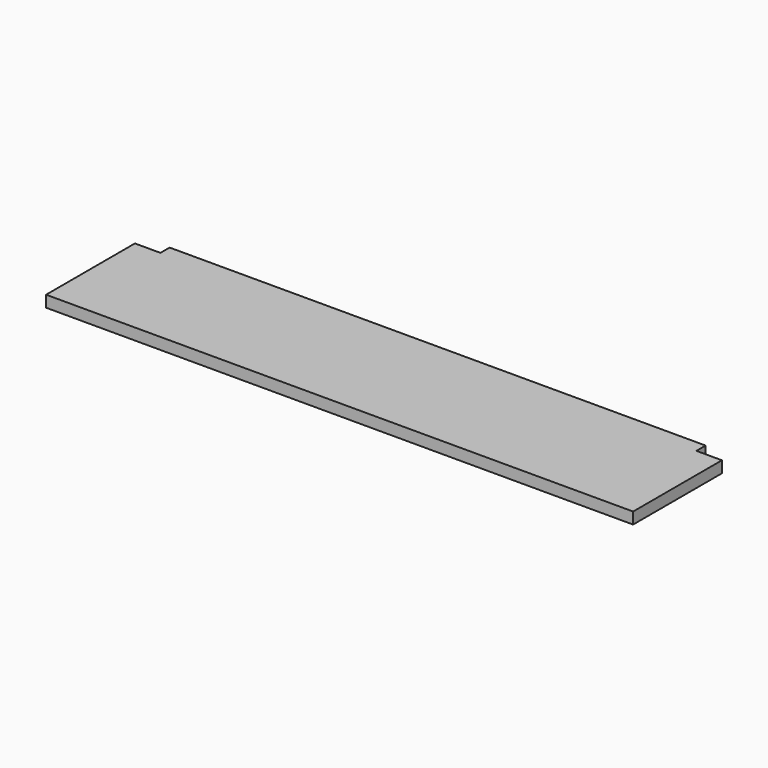
from build123d import *

# Parameters (mm, degrees)
F1_DEPTH = 4.5
F2_W     = 210
F2_H     = 1
F3_DEPTH = 1.5


with BuildPart() as f1:
    # F0 (on Top) → F1 (new body)
    with BuildSketch(Plane.XY):
        Polygon((-115, -24), (115, -24), (115, 19.5), (105, 19.5), (105, 24), (-105, 24), (-105, 19.5), (-115, 19.5), align=None)
    extrude(amount=F1_DEPTH)

    # F2 (on face) → F3 (join)
    with BuildSketch(Plane(origin=(0, 0, 0), x_dir=(1, 0, 0), z_dir=(0, 0, -1))):
        with Locations((0, -23.5)):
            Rectangle(F2_W, F2_H)
    extrude(amount=F3_DEPTH)


solid = f1.part
